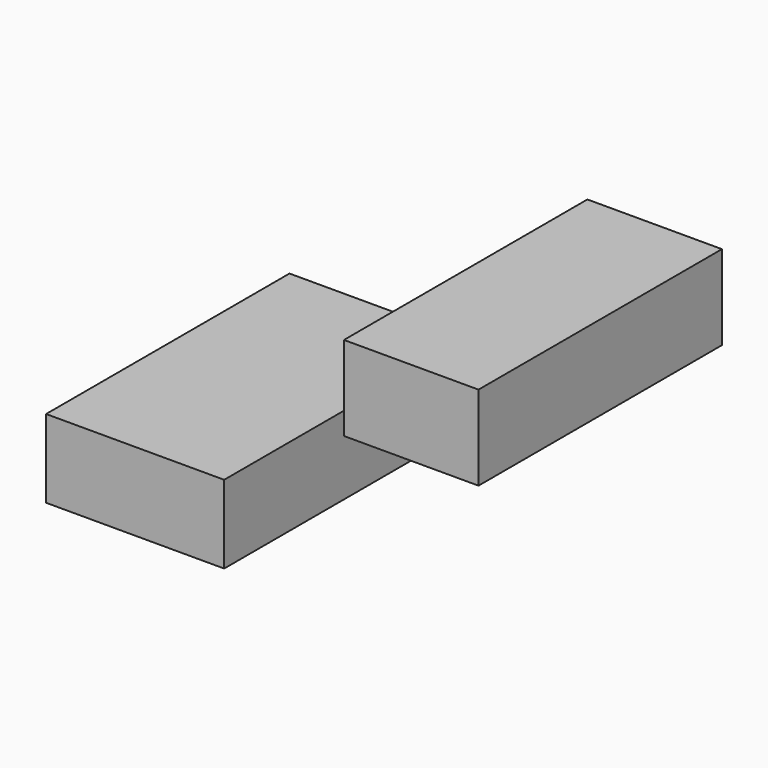
from build123d import *

# Parameters (mm, degrees)
F0_W     = 79.3892
F0_H     = 34.839862
F1_DEPTH = 67.818


with BuildPart() as f1:
    # F0 (on Front) → F1 (new body, symmetric)
    with BuildSketch(Plane.XZ):
        Rectangle(F0_W, F0_H)
        Polygon((93.096696, 89.669835), (93.096696, 51.974226), (101.378307, 51.974226), (153.06697, 51.974226), (153.06697, 89.669835), align=None)
    extrude(amount=F1_DEPTH, both=True)


solid = f1.part
